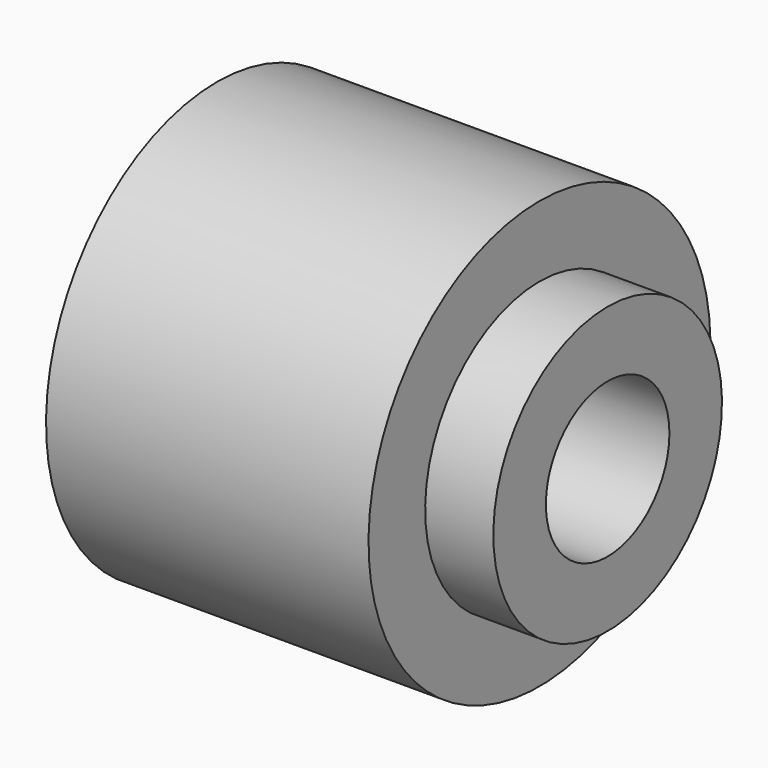
from build123d import *

# Parameters (mm, degrees)
F3_R     = 13.200288
F4_DEPTH = 66.788861


with BuildPart() as f1:
    # F0 (on Front) → F1 (revolve)
    with BuildSketch(Plane.XZ):
        Polygon((0, 36.531616), (0, 0), (66.787861, 0), (66.787861, 24.429118), (55.133604, 24.429118), (55.133604, 36.531616), align=None)
    revolve(axis=Axis((-42.13462, 0, 0), (1, 0, 0)))

    # F3 (on face) → F4 (cut, through all)
    with BuildSketch(Plane.YZ.offset(66.787861)):
        Circle(F3_R)
    extrude(amount=-F4_DEPTH, mode=Mode.SUBTRACT)


solid = f1.part
